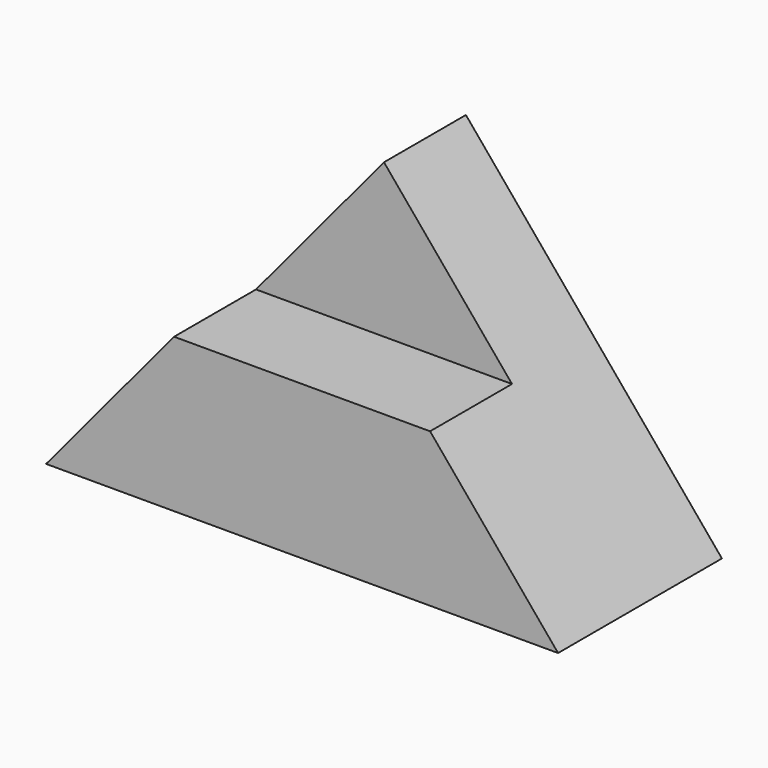
from build123d import *

# Parameters (mm, degrees)
F1_DEPTH = 25.4
F2_DEPTH = 12.7


with BuildPart() as f1:
    # F0 (on Front) → F1 (new body)
    with BuildSketch(Plane.XZ):
        Polygon((15.875, 19.05), (0, 0), (63.5, 0), (47.625, 19.05), align=None)
    extrude(amount=F1_DEPTH)

    # F0 (on Front) → F2 (join)
    with BuildSketch(Plane.XZ):
        Polygon((15.875, 19.05), (0, 0), (63.5, 0), (47.625, 19.05), align=None)
        Polygon((31.75, 38.1), (15.875, 19.05), (47.625, 19.05), align=None)
    extrude(amount=F2_DEPTH)


solid = f1.part
